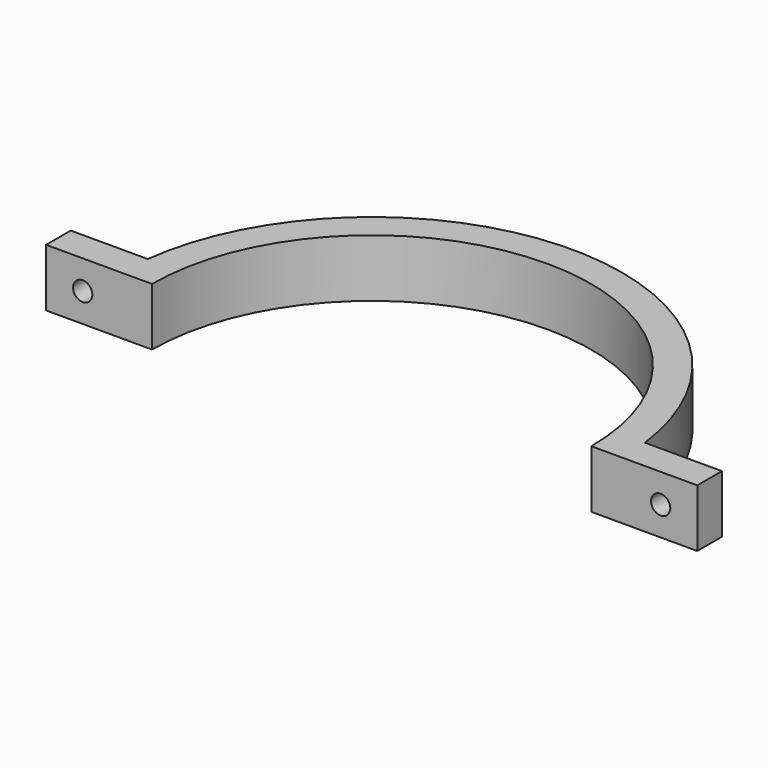
from build123d import *

# Parameters (mm, degrees)
PAD_DEPTH    = 15
SKETCH001_R  = 2.5
POCKET_DEPTH = 10


with BuildPart() as part:
    # Sketch → Pad (new body)
    with BuildSketch(Plane.XY):
        with BuildLine():
            ThreePointArc((57, 0), (0, 57), (-57, 0))
            Line((-84.505814, 0), (-57, 0))
            Line((-84.505814, 8), (-84.505814, 0))
            Line((-64.505814, 8), (-84.505814, 8))
            ThreePointArc((64.505814, 8), (0, 65), (-64.505814, 8))
            Line((64.505814, 8), (84.505814, 8))
            Line((84.505814, 8), (84.505814, 0))
            Line((84.505814, 0), (57, 0))
        make_face()
    extrude(amount=PAD_DEPTH)

    # Sketch001 (on Face1 of Pad) → Pocket (cut)
    with BuildSketch(Plane(origin=(0, 8, 0), x_dir=(-1, 0, 0), z_dir=(0, 1, 0))):
        with Locations((-75, 7.5)):
            Circle(SKETCH001_R)
        with Locations((75, 7.5)):
            Circle(SKETCH001_R)
    extrude(amount=-POCKET_DEPTH, mode=Mode.SUBTRACT)


solid = part.part
